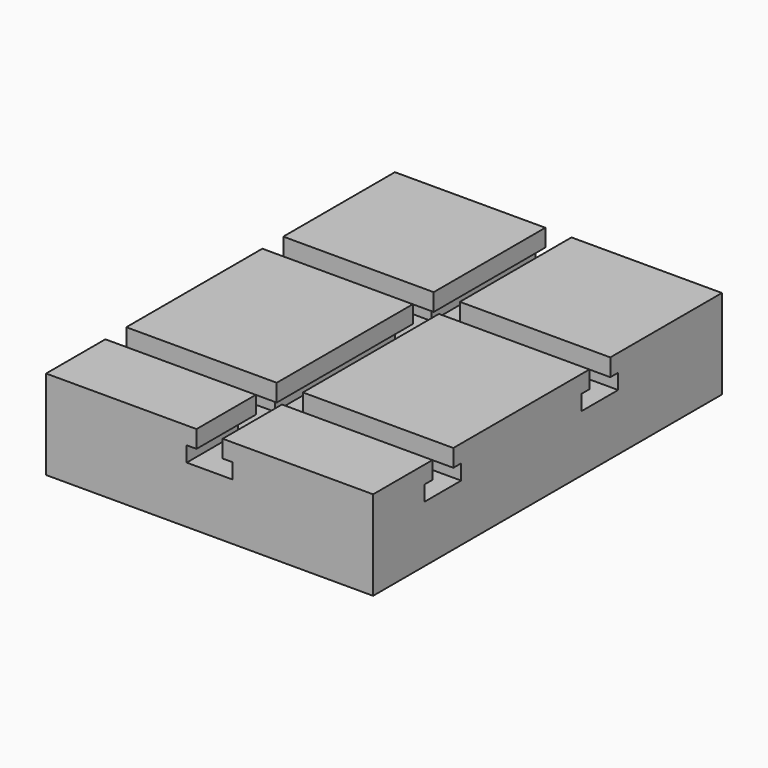
from build123d import *

# Parameters (mm, degrees)
F0_W     = 150
F0_H     = 41
F1_DEPTH = 100
F3_DEPTH = 200.001
F5_DEPTH = 150.001


with BuildPart() as f1:
    # F0 (on Front) → F1 (new body, symmetric)
    with BuildSketch(Plane.XZ):
        with Locations((0, -20.5)):
            Rectangle(F0_W, F0_H)
    extrude(amount=F1_DEPTH, both=True)

    # F2 (on face) → F3 (cut, through all)
    with BuildSketch(Plane.XZ.offset(100)):
        Polygon((6, 0), (-6, 0), (-6, -8), (-10.5, -8), (-10.5, -15), (10.5, -15), (10.5, -8), (6, -8), align=None)
    extrude(amount=-F3_DEPTH, mode=Mode.SUBTRACT)

    # F4 (on face) → F5 (cut, through all)
    with BuildSketch(Plane.YZ.offset(75)):
        Polygon((-54, 0), (-66, 0), (-66, -8), (-70.5, -8), (-70.5, -15), (-49.5, -15), (-49.5, -8), (-54, -8), align=None)
        Polygon((36, 0), (24, 0), (24, -8), (19.5, -8), (19.5, -15), (40.5, -15), (40.5, -8), (36, -8), align=None)
    extrude(amount=-F5_DEPTH, mode=Mode.SUBTRACT)


solid = f1.part
